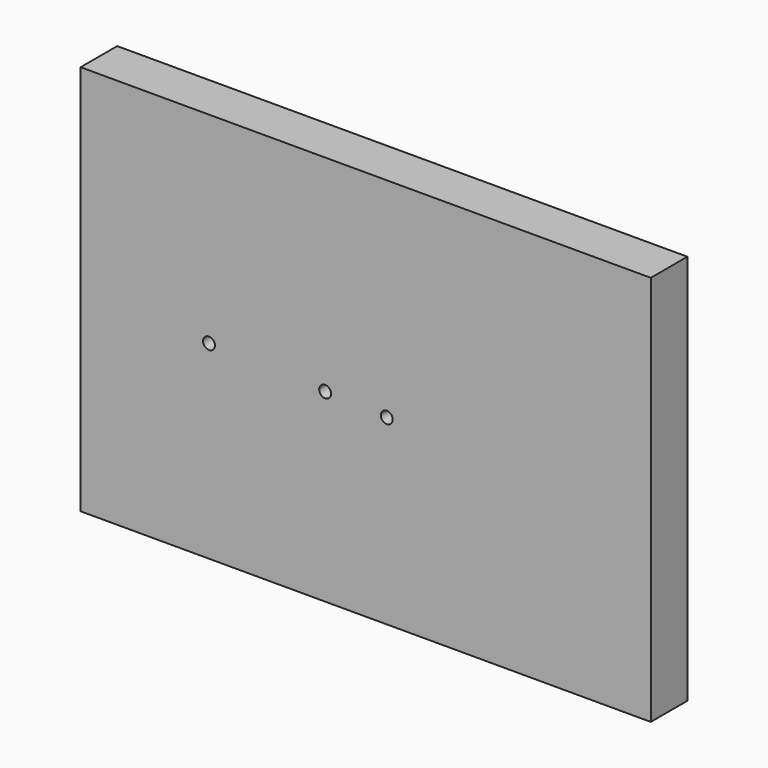
from build123d import *

# Parameters (mm, degrees)
F0_W     = 158.3436
F0_H     = 108.585
F1_DEPTH = 12.7


with BuildPart() as f1:
    # F0 (on Front) → F1 (new body)
    with BuildSketch(Plane.XZ):
        with Locations((23.42954, 11.051804)):
            Rectangle(F0_W, F0_H)
        with BuildLine():
            ThreePointArc((-18.441168, 9.366206), (-21.741427, 9.467902), (-18.439775, 9.433998))
            ThreePointArc((-18.439775, 9.433998), (-18.440124, 9.400095), (-18.441168, 9.366206))
        make_face(mode=Mode.SUBTRACT)
        with BuildLine():
            ThreePointArc((13.814793, 8.035636), (12.095118, 6.4589), (10.51579, 8.176195))
            ThreePointArc((10.51579, 8.176195), (12.199301, 9.759055), (13.816398, 8.108403))
            ThreePointArc((13.816398, 8.108403), (13.815997, 8.072011), (13.814793, 8.035636))
        make_face(mode=Mode.SUBTRACT)
        with BuildLine():
            ThreePointArc((30.919362, 7.35386), (29.231969, 5.703262), (27.618966, 7.426628))
            ThreePointArc((27.618966, 7.426628), (29.304754, 9.004459), (30.919362, 7.35386))
        make_face(mode=Mode.SUBTRACT)
    extrude(amount=F1_DEPTH)


solid = f1.part
